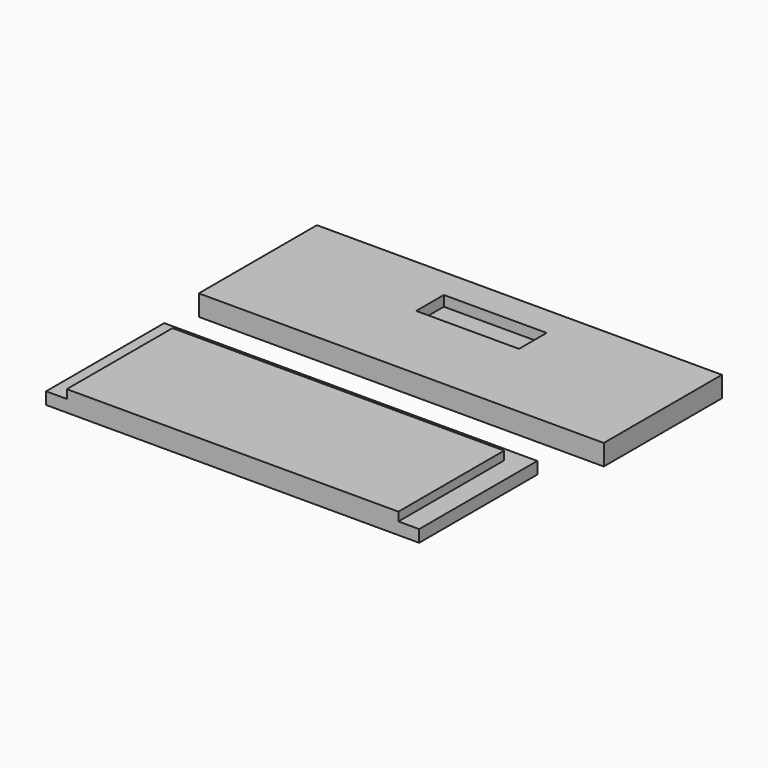
from build123d import *

# Parameters (mm, degrees)
F0_W     = 432
F0_H     = 171
F1_DEPTH = 24
F3_DEPTH = 10
F4_W     = 469
F4_H     = 171
F5_DEPTH = 24
F6_W     = 119
F6_H     = 40
F7_DEPTH = 12


with BuildPart() as f1:
    # F0 (on Top) → F1 (new body)
    with BuildSketch(Plane.XY):
        with Locations((216, -85.5)):
            Rectangle(F0_W, F0_H)
        with Locations((216, -85.5)):
            Rectangle(F0_W, F0_H)
    extrude(amount=F1_DEPTH)

    # F2 (on face) → F3 (cut)
    with BuildSketch(Plane.XY.offset(24)):
        Polygon((0, 0), (0, -171), (24, -171), (24, -18), (408, -18), (408, -171), (432, -171), (432, 0), align=None)
    extrude(amount=-F3_DEPTH, mode=Mode.SUBTRACT)


with BuildPart() as f5:
    # F4 (on Top) → F5 (new body)
    with BuildSketch(Plane.XY):
        with Locations((234.5, 135.5)):
            Rectangle(F4_W, F4_H)
    extrude(amount=F5_DEPTH)

    # F6 (on face) → F7 (cut)
    with BuildSketch(Plane.XY.offset(24)):
        with Locations((234.5, 166)):
            Rectangle(F6_W, F6_H)
    extrude(amount=-F7_DEPTH, mode=Mode.SUBTRACT)


solid = Compound([f1.part, f5.part])
